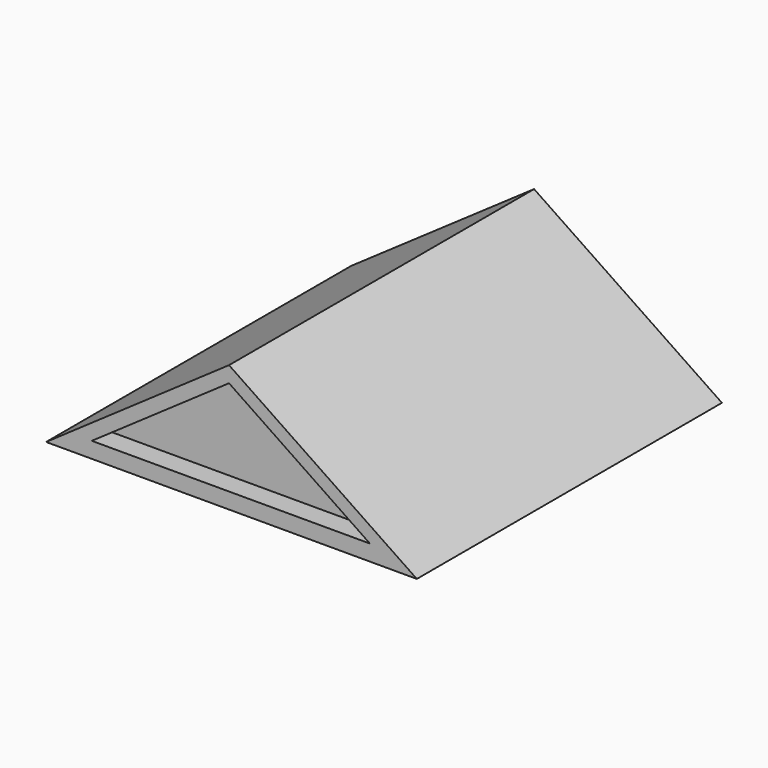
from build123d import *

# Parameters (mm, degrees)
F1_DEPTH = 45.72
F2_DEPTH = 43.18


with BuildPart() as f1:
    # F0 (on Front) → F1 (new body)
    with BuildSketch(Plane.XZ):
        Polygon((0, 15.24), (-21.933843, 0), (0, 0), (0, 1.903249), (-16.452903, 1.903249), (0, 13.335), align=None)
        Polygon((0, 1.903249), (0, 0), (22.516157, 0), (0, 15.24), (0, 13.335), (16.889705, 1.903249), align=None)
    extrude(amount=F1_DEPTH)

    # F0 (on Front) → F2 (join)
    with BuildSketch(Plane.XZ):
        Polygon((-16.452903, 1.903249), (0, 1.903249), (16.889705, 1.903249), (0, 13.335), align=None)
    extrude(amount=F2_DEPTH)


solid = f1.part
